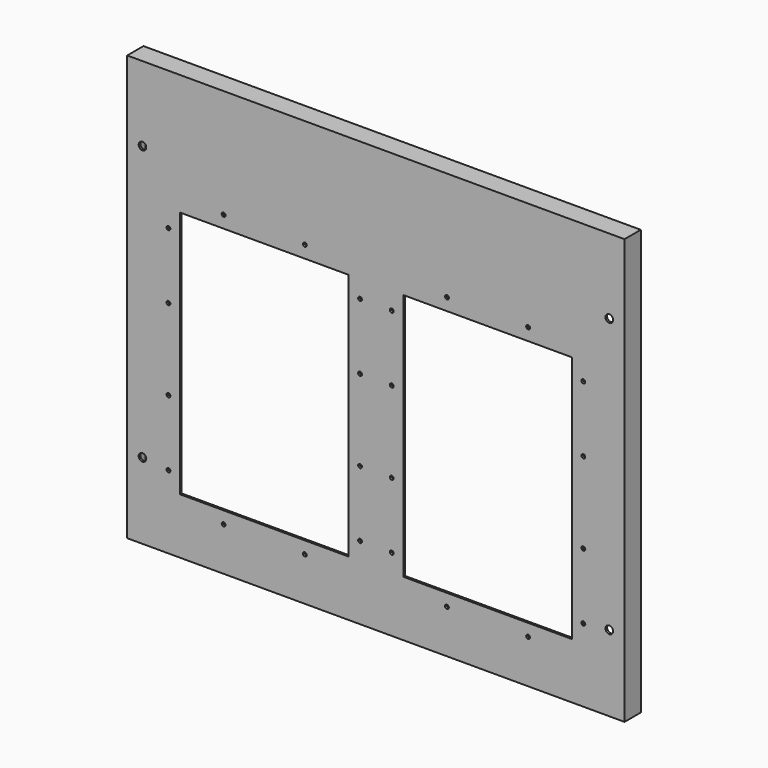
from build123d import *

# Parameters (mm, degrees)
F0_W     = 622.3
F0_H     = 531.8125
F0_R     = 2.413
F0_R_2   = 4.7625
F0_W_2   = 210.82
F0_H_2   = 310.388
F1_DEPTH = 25.4
F2_T     = -2.54
F3_W     = 617.22
F3_H     = 22.86
F4_DEPTH = 526.7325


with BuildPart() as f1:
    # F0 (on Front) → F1 (new body)
    with BuildSketch(Plane.XZ):
        with Locations((0, 265.90625)):
            Rectangle(F0_W, F0_H)
        with Locations((-190.5, 54.483)):
            Circle(F0_R, mode=Mode.SUBTRACT)
        with Locations((-292.1, 95.25)):
            Circle(F0_R_2, mode=Mode.SUBTRACT)
        with Locations((-259.588, 91.694)):
            Circle(F0_R, mode=Mode.SUBTRACT)
        with Locations((-88.9, 54.483)):
            Circle(F0_R, mode=Mode.SUBTRACT)
        with Locations((-19.812, 91.694)):
            Circle(F0_R, mode=Mode.SUBTRACT)
        with Locations((-259.588, 174.244)):
            Circle(F0_R, mode=Mode.SUBTRACT)
        with Locations((-19.812, 174.244)):
            Circle(F0_R, mode=Mode.SUBTRACT)
        with Locations((-139.7, 225.044)):
            Rectangle(F0_W_2, F0_H_2, mode=Mode.SUBTRACT)
        with Locations((88.9, 54.483)):
            Circle(F0_R, mode=Mode.SUBTRACT)
        with Locations((19.812, 91.694)):
            Circle(F0_R, mode=Mode.SUBTRACT)
        with Locations((190.5, 54.483)):
            Circle(F0_R, mode=Mode.SUBTRACT)
        with Locations((259.588, 91.694)):
            Circle(F0_R, mode=Mode.SUBTRACT)
        with Locations((292.1, 95.25)):
            Circle(F0_R_2, mode=Mode.SUBTRACT)
        with Locations((19.812, 174.244)):
            Circle(F0_R, mode=Mode.SUBTRACT)
        with Locations((139.7, 225.044)):
            Rectangle(F0_W_2, F0_H_2, mode=Mode.SUBTRACT)
        with Locations((259.588, 174.244)):
            Circle(F0_R, mode=Mode.SUBTRACT)
        with Locations((-259.588, 275.844)):
            Circle(F0_R, mode=Mode.SUBTRACT)
        with Locations((-259.588, 358.394)):
            Circle(F0_R, mode=Mode.SUBTRACT)
        with Locations((-190.5, 395.605)):
            Circle(F0_R, mode=Mode.SUBTRACT)
        with Locations((-19.812, 275.844)):
            Circle(F0_R, mode=Mode.SUBTRACT)
        with Locations((-88.9, 395.605)):
            Circle(F0_R, mode=Mode.SUBTRACT)
        with Locations((-19.812, 358.394)):
            Circle(F0_R, mode=Mode.SUBTRACT)
        with Locations((-292.1, 438.15)):
            Circle(F0_R_2, mode=Mode.SUBTRACT)
        with Locations((19.812, 275.844)):
            Circle(F0_R, mode=Mode.SUBTRACT)
        with Locations((19.812, 358.394)):
            Circle(F0_R, mode=Mode.SUBTRACT)
        with Locations((88.9, 395.605)):
            Circle(F0_R, mode=Mode.SUBTRACT)
        with Locations((259.588, 275.844)):
            Circle(F0_R, mode=Mode.SUBTRACT)
        with Locations((190.5, 395.605)):
            Circle(F0_R, mode=Mode.SUBTRACT)
        with Locations((259.588, 358.394)):
            Circle(F0_R, mode=Mode.SUBTRACT)
        with Locations((292.1, 438.15)):
            Circle(F0_R_2, mode=Mode.SUBTRACT)
    extrude(amount=F1_DEPTH)

    # F2
    f2_openings = [f1.faces().sort_by_distance(p)[0] for p in [
        (0, 0, 292.820788),
    ]]
    offset(amount=F2_T, openings=f2_openings, kind=Kind.INTERSECTION)

    # F3 (on face) → F4 (cut, through all)
    with BuildSketch(Plane(origin=(0, 0, 529.2725), x_dir=(1, 0, 0), z_dir=(0, 0, -1))):
        with Locations((0, 11.43)):
            Rectangle(F3_W, F3_H)
    extrude(amount=F4_DEPTH, mode=Mode.SUBTRACT)


solid = f1.part
